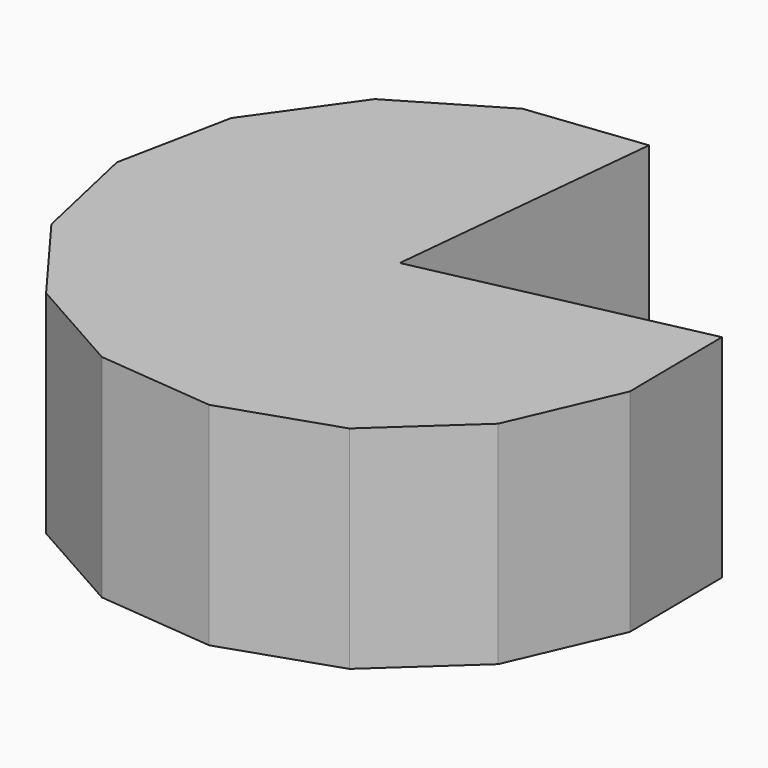
from build123d import *

# Parameters (mm, degrees)
F1_DEPTH = 50
F3_DEPTH = 55


with BuildPart() as f1:
    # F0 (on Top) → F1 (new body)
    with BuildSketch(Plane.XY):
        Polygon((6.523423, 65.423498), (-20.813363, 62.254017), (-44.497616, 48.239678), (-60.434112, 25.80369), (-65.867287, -1.174563), (-59.857696, -28.030294), (-43.444451, -50.119905), (-19.465552, -63.6239), (7.932832, -66.207316), (34.013272, -57.423458), (54.266222, -38.791133), (65.189763, -13.532041), (64.895117, 13.986292), (53.433229, 39.005697), (32.785965, 57.200091), align=None)
    extrude(amount=F1_DEPTH)

    # F2 (on face) → F3 (cut)
    with BuildSketch(Plane(origin=(0, 0, 0), x_dir=(1, 0, 0), z_dir=(0, 0, -1))):
        Polygon((64.895117, -13.986292), (0, 0), (6.523423, -65.423498), (32.785965, -57.200091), (53.433229, -39.005697), align=None)
    extrude(amount=-F3_DEPTH, mode=Mode.SUBTRACT)


solid = f1.part
